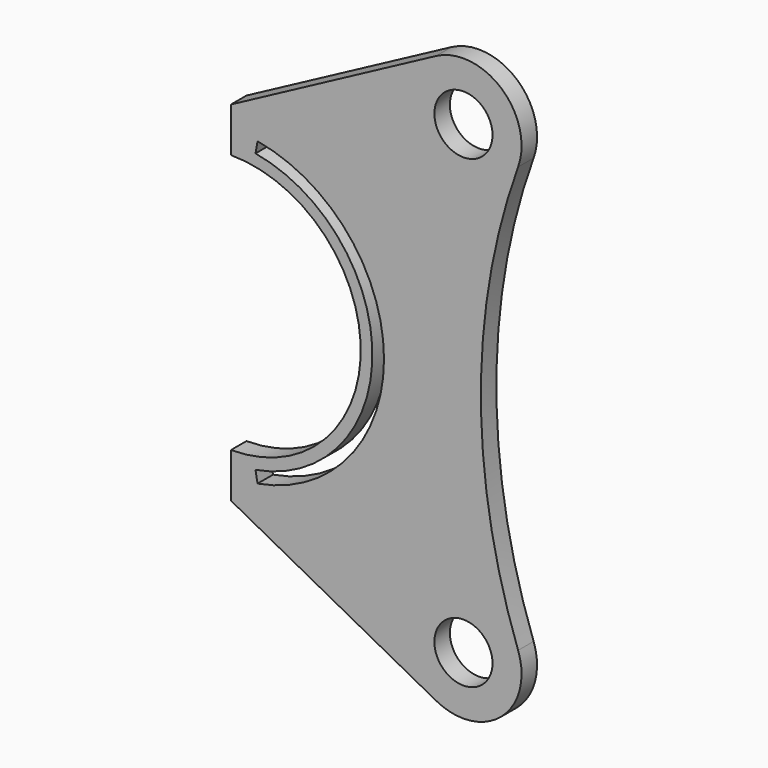
from build123d import *

# Parameters (mm, degrees)
F0_R     = 7.5
F1_DEPTH = 5


with BuildPart() as f1:
    # F0 (on Front) → F1 (new body)
    with BuildSketch(Plane.XZ):
        with BuildLine():
            ThreePointArc((-700, 33.5), (-666.5, 0), (-700, -33.5))
            Line((-700, -33.5), (-700, -45))
            Line((-700, -45), (-647.058824, -73.235294))
            ThreePointArc((-647.058824, -73.235294), (-630.180866, -71.339516), (-625.891449, -54.906004))
            ThreePointArc((-625.891449, -54.906004), (-635.5, 0), (-625.891449, 54.906004))
            ThreePointArc((-625.891449, 54.906004), (-630.180866, 71.339516), (-647.058824, 73.235294))
            Line((-647.058824, 73.235294), (-700, 45))
            Line((-700, 45), (-700, 33.5))
        make_face()
        with Locations((-640, -60)):
            Circle(F0_R, mode=Mode.SUBTRACT)
        with BuildLine():
            Line((-693.140897, -38.899906), (-693.661842, -35.945483))
            ThreePointArc((-693.661842, -35.945483), (-663.5, 0), (-693.661842, 35.945483))
            Line((-693.661842, 35.945483), (-693.140897, 38.899906))
            ThreePointArc((-693.140897, 38.899906), (-660.5, 0), (-693.140897, -38.899906))
        make_face(mode=Mode.SUBTRACT)
        with Locations((-640, 60)):
            Circle(F0_R, mode=Mode.SUBTRACT)
    extrude(amount=-F1_DEPTH)


solid = f1.part
